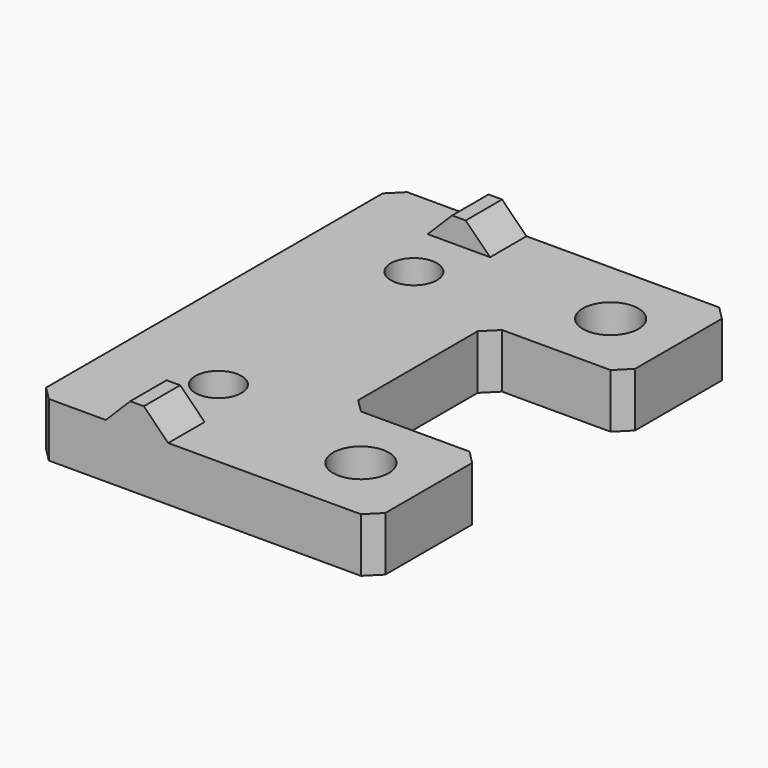
from build123d import *

# Parameters (mm, degrees)
CYLINDER053_R         = 2.05
CYLINDER053_DEPTH     = 10
CYLINDER052_R         = 2.05
CYLINDER052_DEPTH     = 10
BOX002028_W           = 10
BOX002028_H           = 10
BOX002028_DEPTH       = 4
BOX002029_W           = 10
BOX002029_H           = 10
BOX002029_DEPTH       = 4
CYLINDER050_R         = 1.7
CYLINDER050_DEPTH     = 10
CYLINDER051_R         = 1.7
CYLINDER051_DEPTH     = 10
BOX002025_W           = 5
BOX002025_H           = 26.3
BOX002025_DEPTH       = 2.8
BOX002026_W           = 5
BOX002026_H           = 34
BOX002026_DEPTH       = 2.8
CHAMFER012008023_SIZE = 2
BOX002024_W           = 15
BOX002024_H           = 34
BOX002024_DEPTH       = 4
BOX002027_W           = 15
BOX002027_H           = 33
BOX002027_DEPTH       = 10
CHAMFER012008024_SIZE = 1


with BuildPart() as cylinder053:
    # Cylinder053 → Cylinder053 (new body)
    with BuildSketch(Plane(origin=(12.5, -11.5, 0), x_dir=(1, 0, 0), z_dir=(0, 0, 1))):
        Circle(CYLINDER053_R)
    extrude(amount=CYLINDER053_DEPTH)


with BuildPart() as fusion025019011006:
    # Cylinder052 → Cylinder052 (new body)
    with BuildSketch(Plane(origin=(12.5, 11.5, 0), x_dir=(1, 0, 0), z_dir=(0, 0, 1))):
        Circle(CYLINDER052_R)
    extrude(amount=CYLINDER052_DEPTH)

    # Fusion025019011006: union Cylinder053
    add(cylinder053.part)


with BuildPart() as cube030:
    # Box002028 → Box002028 (new body)
    with BuildSketch(Plane(origin=(7.5, 6.5, 0), x_dir=(1, 0, 0), z_dir=(0, 0, 1))):
        with Locations((5, 5)):
            Rectangle(BOX002028_W, BOX002028_H)
    extrude(amount=BOX002028_DEPTH)


with BuildPart() as cube031:
    # Box002029 → Box002029 (new body)
    with BuildSketch(Plane(origin=(7.5, -16.5, 0), x_dir=(1, 0, 0), z_dir=(0, 0, 1))):
        with Locations((5, 5)):
            Rectangle(BOX002029_W, BOX002029_H)
    extrude(amount=BOX002029_DEPTH)


with BuildPart() as cylinder050:
    # Cylinder050 → Cylinder050 (new body)
    with BuildSketch(Plane(origin=(0, 9, 0), x_dir=(1, 0, 0), z_dir=(0, 0, 1))):
        Circle(CYLINDER050_R)
    extrude(amount=CYLINDER050_DEPTH)


with BuildPart() as fusion025019011004:
    # Cylinder051 → Cylinder051 (new body)
    with BuildSketch(Plane(origin=(0, -9, 0), x_dir=(1, 0, 0), z_dir=(0, 0, 1))):
        Circle(CYLINDER051_R)
    extrude(amount=CYLINDER051_DEPTH)

    # Fusion025019011004: union Cylinder050
    add(cylinder050.part)


with BuildPart() as cube027:
    # Box002025 → Box002025 (new body)
    with BuildSketch(Plane(origin=(-2.5, -13.15, 3), x_dir=(1, 0, 0), z_dir=(0, 0, 1))):
        with Locations((2.5, 13.15)):
            Rectangle(BOX002025_W, BOX002025_H)
    extrude(amount=BOX002025_DEPTH)


with BuildPart() as cut001038015011010:
    # Box002026 → Box002026 (new body)
    with BuildSketch(Plane(origin=(-2.5, -17, 3), x_dir=(1, 0, 0), z_dir=(0, 0, 1))):
        with Locations((2.5, 17)):
            Rectangle(BOX002026_W, BOX002026_H)
    extrude(amount=BOX002026_DEPTH)

    # Chamfer012008023
    chamfer012008023_edges = [cut001038015011010.edges().sort_by_distance(p)[0] for p in [
        (-2.5, 0, 5.8),
        (2.5, 0, 5.8),
    ]]
    chamfer(chamfer012008023_edges, length=CHAMFER012008023_SIZE)

    # Cut001038015011010: cut Cube027
    add(cube027.part, mode=Mode.SUBTRACT)


with BuildPart() as cut001038015011011:
    # Box002024 → Box002024 (new body)
    with BuildSketch(Plane(origin=(-7.5, -17, 0), x_dir=(1, 0, 0), z_dir=(0, 0, 1))):
        with Locations((7.5, 17)):
            Rectangle(BOX002024_W, BOX002024_H)
    extrude(amount=BOX002024_DEPTH)

    # Fusion025019011003: union Cut001038015011010
    add(cut001038015011010.part)

    # Cut001038015011011: cut Fusion025019011004
    add(fusion025019011004.part, mode=Mode.SUBTRACT)


with BuildPart() as cut001038015011012:
    # Box002027 → Box002027 (new body)
    with BuildSketch(Plane(origin=(-7.5, -16.5, 0), x_dir=(1, 0, 0), z_dir=(0, 0, 1))):
        with Locations((7.5, 16.5)):
            Rectangle(BOX002027_W, BOX002027_H)
    extrude(amount=BOX002027_DEPTH)

    # Common004002: intersect Cut001038015011011
    add(cut001038015011011.part, mode=Mode.INTERSECT)

    # Fusion025019011005: union Cube030, Cube031
    add(cube030.part)
    add(cube031.part)

    # Chamfer012008024
    chamfer012008024_edges = [cut001038015011012.edges().sort_by_distance(p)[0] for p in [
        (17.5, 6.5, 2),
        (17.5, 16.5, 2),
        (7.5, 6.5, 2),
        (7.5, -6.5, 2),
        (-7.5, 16.5, 2),
        (17.5, -6.5, 2),
        (-7.5, -16.5, 2),
        (17.5, -16.5, 2),
    ]]
    chamfer(chamfer012008024_edges, length=CHAMFER012008024_SIZE)

    # Cut001038015011012: cut Fusion025019011006
    add(fusion025019011006.part, mode=Mode.SUBTRACT)


solid = cut001038015011012.part
